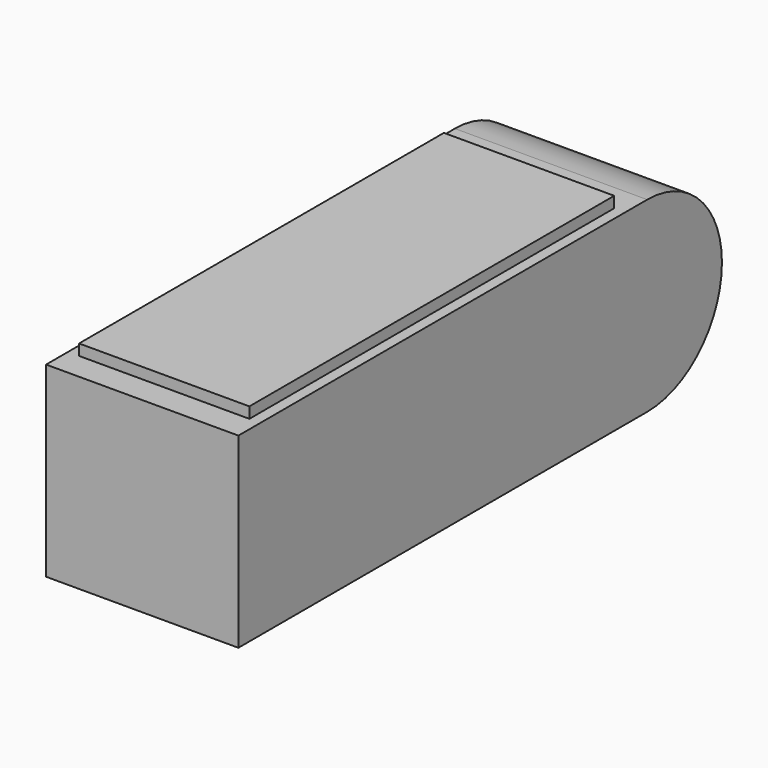
from build123d import *

# Parameters (mm, degrees)
F3_DEPTH = 17.5
F2_W     = 83
F2_H     = 2
F4_DEPTH = 15.5


with BuildPart() as f3:
    # F1 (on Right) → F3 (new body, symmetric)
    with BuildSketch(Plane.YZ):
        with BuildLine():
            Line((93, 17), (0, 17))
            Line((0, 17), (0, -17))
            Line((0, -17), (93, -17))
            ThreePointArc((93, -17), (110, 0), (93, 17))
        make_face()
    extrude(amount=F3_DEPTH, both=True)


with BuildPart() as f4:
    # F2 (on Right) → F4 (new body, symmetric)
    with BuildSketch(Plane.YZ):
        with Locations((46.5, 18)):
            Rectangle(F2_W, F2_H)
    extrude(amount=F4_DEPTH, both=True)


solid = Compound([f3.part, f4.part])
